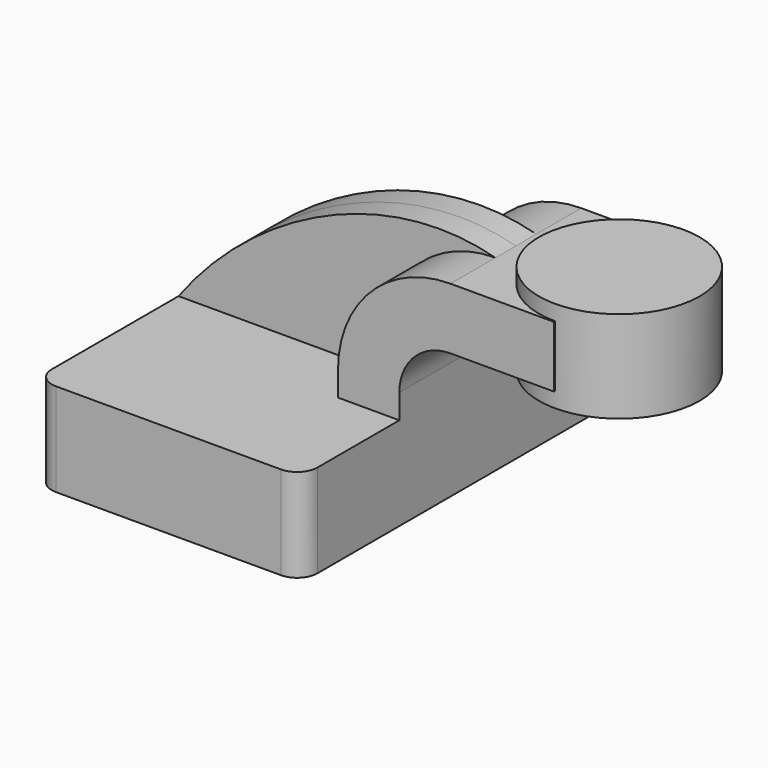
from build123d import *

# Parameters (mm, degrees)
F1_DEPTH = 63.5
F3_DEPTH = 25.4
F5_DEPTH = 7.9375
F7_R     = 6.35


with BuildPart() as f1:
    # F0 (on Front) → F1 (new body, symmetric)
    with BuildSketch(Plane.XZ):
        Polygon((22.225, 14.467527), (-41.275, 14.467527), (-41.275, -14.467527), (41.275, -14.467527), (41.275, 14.467527), align=None)
    extrude(amount=F1_DEPTH, both=True)

    # F0 (on Front) → F3 (join, symmetric)
    with BuildSketch(Plane.XZ):
        with BuildLine():
            Line((22.225, 22.057673), (22.225, 14.467527))
            Line((22.225, 14.467527), (41.275, 14.467527))
            Line((41.275, 14.467527), (41.275, 22.057673))
            ThreePointArc((41.275, 22.057673), (45.92468, 33.282993), (57.15, 37.932673))
            Line((57.15, 37.932673), (63.412444, 37.932673))
            Line((63.412444, 37.932673), (63.412444, 56.982673))
            Line((63.412444, 56.982673), (57.15, 56.982673))
            ThreePointArc((57.15, 56.982673), (32.454296, 46.753377), (22.225, 22.057673))
        make_face()
        Polygon((89.267325, 56.982673), (63.412444, 56.982673), (63.412444, 37.932673), (66.957286, 37.932673), (89.267325, 37.932673), align=None)
    extrude(amount=F3_DEPTH, both=True)

    # F0 (on Front) → F5 (join, symmetric)
    with BuildSketch(Plane.XZ):
        with BuildLine():
            add(Edge.make_bspline(
                [(-41.275, 14.467527), (-18.026909, 45.974523), (22.888102, 66.229478), (57.15, 56.982673)],
                knots=[0, 0, 0, 0, 107.214823, 107.214823, 107.214823, 107.214823], degree=3))
            Line((-41.275, 14.467527), (22.225, 14.467527))
            Line((22.225, 14.467527), (22.225, 22.057673))
            ThreePointArc((22.225, 22.057673), (32.454296, 46.753377), (57.15, 56.982673))
        make_face()
    extrude(amount=F5_DEPTH, both=True)

    # F0 (on Front) → F6 (revolve)
    with BuildSketch(Plane.XZ):
        Polygon((89.267325, 61.732473), (89.267325, 56.982673), (89.267325, 37.932673), (89.267325, 33.157473), (114.212444, 33.157473), (114.212444, 61.732473), align=None)
    revolve(axis=Axis((89.267325, 0, 47.444973), (0, 0, 1)))

    # F7
    f7_edges = [f1.edges().sort_by_distance(p)[0] for p in [
        (-41.275, -63.5, 0),
        (41.275, -63.5, 0),
        (41.275, 63.5, 0),
        (-41.275, 63.5, 0),
    ]]
    fillet(f7_edges, radius=F7_R)


solid = f1.part
